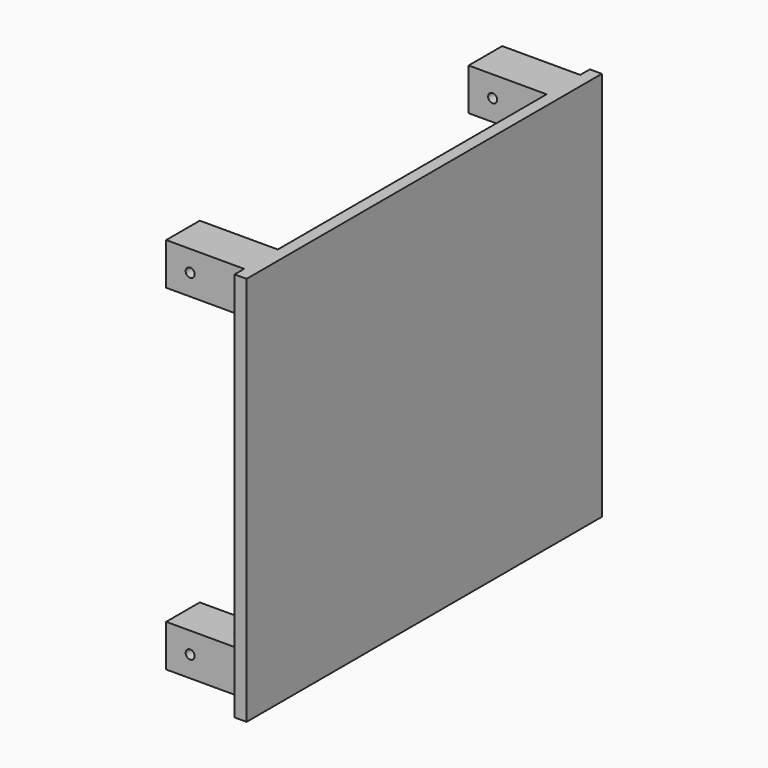
from build123d import *

# Parameters (mm, degrees)
F0_W     = 93.98
F0_H     = 82.55
F1_DEPTH = 2.54
F2_W     = 8.89
F2_H     = 8.89
F3_DEPTH = 16.51
F6_D     = 1.905
F9_D     = 1.905
F9_DEPTH = 12.7


with BuildPart() as f1:
    # F0 (on Right) → F1 (new body)
    with BuildSketch(Plane.YZ):
        with Locations((7.112141, -1.921732)):
            Rectangle(F0_W, F0_H)
    extrude(amount=F1_DEPTH)

    # F2 (on face) → F3 (join)
    with BuildSketch(Plane(origin=(0, 0, 0), x_dir=(0, -1, 0), z_dir=(-1, 0, 0))):
        with Locations((-47.117141, 34.908268)):
            Rectangle(F2_W, F2_H)
        with Locations((32.892859, 34.908268)):
            Rectangle(F2_W, F2_H)
        with Locations((32.892859, -36.211732)):
            Rectangle(F2_W, F2_H)
        with Locations((-47.117141, -36.211732)):
            Rectangle(F2_W, F2_H)
    extrude(amount=F3_DEPTH)

    # F6 (through all)
    with Locations(Plane.XZ.offset(37.337859)):
        with Locations((-11.43, -36.211732), (-11.43, 34.908268)):
            Hole(F6_D / 2)

    # F9
    with Locations(Plane(origin=(0, 0, -40.656732), x_dir=(1, 0, 0), z_dir=(0, 0, -1))):
        with Locations((-4.445, -47.117141), (-4.445, 32.892859)):
            Hole(F9_D / 2, depth=F9_DEPTH)


solid = f1.part
